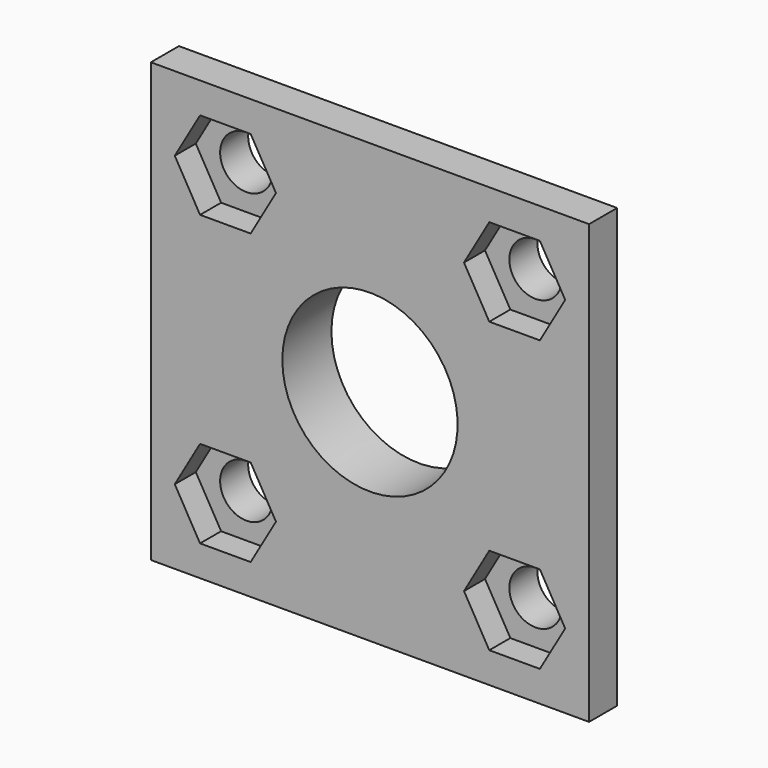
from build123d import *

# Parameters (mm, degrees)
F0_W     = 50
F0_H     = 50
F1_DEPTH = 4
F2_W     = 43.4
F2_H     = 43.4
F3_DEPTH = 3
F4_R     = 3
F4_R_2   = 10
F5_DEPTH = 25
F7_DEPTH = 3
F8_R     = 3


with BuildPart() as f1:
    # F0 (on Front) → F1 (new body)
    with BuildSketch(Plane.XZ):
        Rectangle(F0_W, F0_H)
    extrude(amount=-F1_DEPTH)

    # F2 (on face) → F3 (join)
    with BuildSketch(Plane(origin=(0, 4, 0), x_dir=(-1, 0, 0), z_dir=(0, 1, 0))):
        Rectangle(F2_W, F2_H)
    extrude(amount=F3_DEPTH)

    # F4 (on face) → F5 (cut)
    with BuildSketch(Plane(origin=(0, 7, 0), x_dir=(-1, 0, 0), z_dir=(0, 1, 0))):
        with Locations((-16.5, 16.5)):
            Circle(F4_R)
        with Locations((16.5, 16.5)):
            Circle(F4_R)
        with Locations((16.5, -16.5)):
            Circle(F4_R)
        with Locations((-16.5, -16.5)):
            Circle(F4_R)
        Circle(F4_R_2)
    extrude(amount=-F5_DEPTH, mode=Mode.SUBTRACT)

    # F6 (on face) → F7 (cut)
    with BuildSketch(Plane.XZ):
        Polygon((-19.386751, 11.5), (-13.613249, 11.5), (-10.726497, 16.5), (-13.613249, 21.5), (-19.386751, 21.5), (-22.273503, 16.5), align=None)
        Polygon((19.386751, 21.5), (13.613249, 21.5), (10.726497, 16.5), (13.613249, 11.5), (19.386751, 11.5), (22.273503, 16.5), align=None)
        Polygon((13.613249, -21.5), (19.386751, -21.5), (22.273503, -16.5), (19.386751, -11.5), (13.613249, -11.5), (10.726497, -16.5), align=None)
        Polygon((-19.386751, -21.5), (-13.613249, -21.5), (-10.726497, -16.5), (-13.613249, -11.5), (-19.386751, -11.5), (-22.273503, -16.5), align=None)
    extrude(amount=-F7_DEPTH, mode=Mode.SUBTRACT)

    # F8
    f8_edges = [f1.edges().sort_by_distance(p)[0] for p in [
        (21.7, 5.5, 21.7),
        (-21.7, 5.5, 21.7),
        (-21.7, 5.5, -21.7),
        (21.7, 5.5, -21.7),
    ]]
    fillet(f8_edges, radius=F8_R)


solid = f1.part
